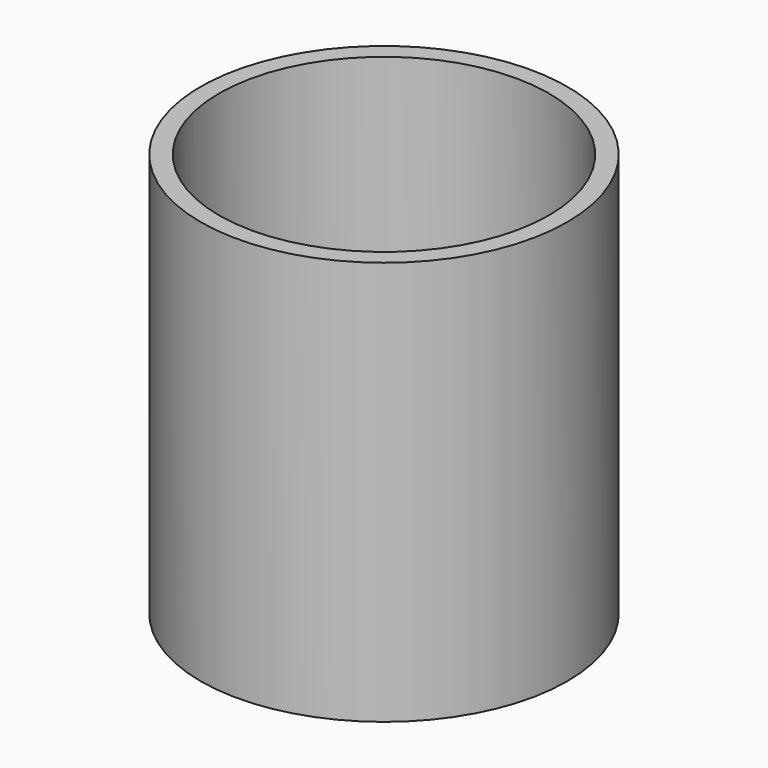
from build123d import *

# Parameters (mm, degrees)
F0_R     = 63.5
F0_R_2   = 57.15
F1_DEPTH = 140
F2_R     = 57.15
F3_DEPTH = 172.72
F4_DEPTH = 150
F5_R     = 1.27
F6_DEPTH = 140.001


with BuildPart() as f1:
    # F0 (on Top) → F1 (new body)
    with BuildSketch(Plane.XY):
        Circle(F0_R)
        Circle(F0_R_2, mode=Mode.SUBTRACT)
        Circle(F0_R_2)
    extrude(amount=F1_DEPTH)

    # F2 (on Top) → F3 (join)
    with BuildSketch(Plane.XY):
        Circle(F2_R)
    extrude(amount=F3_DEPTH)

    # F4 (cut): faces of the model
    f4_faces = [f1.faces().sort_by_distance(p)[0] for p in [
        (0, 0, 172.72),
        (0, 0, 0),
    ]]
    extrude(f4_faces, amount=-F4_DEPTH, dir=(0, 0, 1), mode=Mode.SUBTRACT)

    # F5 (on Top) → F6 (cut, through all)
    with BuildSketch(Plane.XY):
        Circle(F5_R)
    extrude(amount=F6_DEPTH, mode=Mode.SUBTRACT)


solid = f1.part
